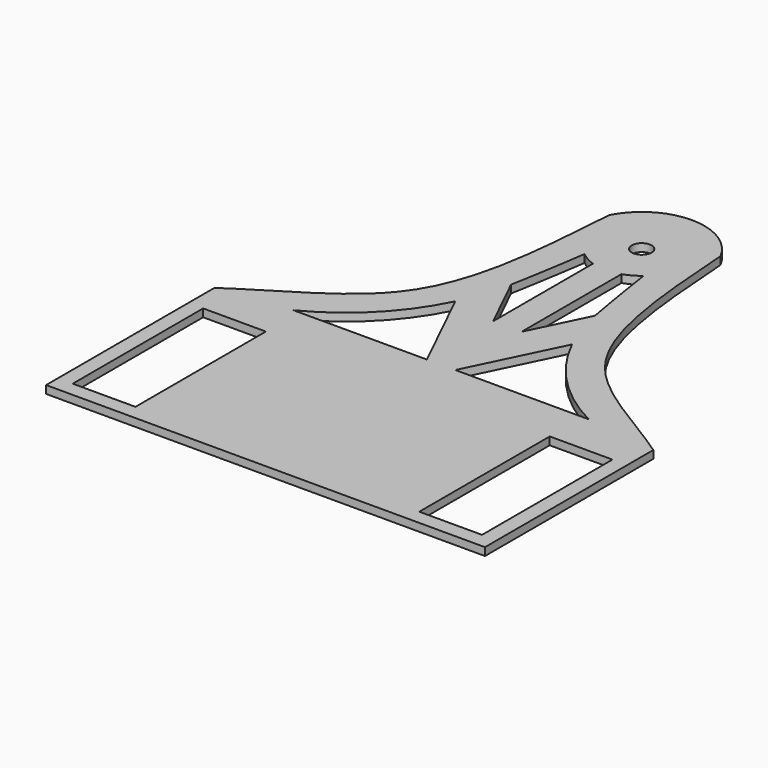
from build123d import *

# Parameters (mm, degrees)
F0_R     = 4
F0_W     = 177.8
F0_H     = 85.24
F0_W_2   = 25.4
F0_H_2   = 66.04
F1_DEPTH = 3.175


with BuildPart() as f1:
    # F0 (on Top) → F1 (new body)
    with BuildSketch(Plane.XY):
        with BuildLine():
            add(Edge.make_bspline(
                [(22.5202294805, 113.3473088044), (24.6785630933, 84.2312430336), (27.5522275569, 27.268327843), (69.7704020362, 9.5247320193), (88.8999999985, -3.66)],
                knots=[0, 0, 0, 0, 0.529467504, 1, 1, 1, 1], degree=3))
            ThreePointArc((22.5202294805, 113.3473088043), (1e-10, 127), (-22.5202294805, 113.3473088044))
            add(Edge.make_bspline(
                [(-22.5202294805, 113.3473088044), (-24.6785630933, 84.2312430336), (-27.5522275569, 27.268327843), (-69.7704020362, 9.5247320193), (-88.8999999985, -3.66)],
                knots=[0, 0, 0, 0, 0.529467504, 1, 1, 1, 1], degree=3))
            Line((-88.8999999985, -3.66), (88.9000000015, -3.66))
        make_face()
        with BuildLine():
            ThreePointArc((-59.8212145269, 0), (-38.7136496278, 15.4052324982), (-23.6512337148, 36.7587828155))
            Line((-23.6512337148, 36.7587828155), (-5.7622946509, 0))
            Line((-5.7622946509, 0), (-59.8212145269, 0))
        make_face(mode=Mode.SUBTRACT)
        with BuildLine():
            Line((5.7622946509, 0), (23.6512337148, 36.7587828155))
            ThreePointArc((23.6512337148, 36.7587828155), (38.7136496278, 15.4052324982), (59.8212145269, 0))
            Line((59.8212145269, 0), (5.7622946509, 0))
        make_face(mode=Mode.SUBTRACT)
        with BuildLine():
            Line((-5.7622946509, 33.5634882355), (-17.0102279312, 56.676113031))
            ThreePointArc((-17.0102279312, 56.676113031), (-14.345117084, 72.11901875), (-11.9453535958, 87.6053768783))
            ThreePointArc((-11.9453535958, 87.6053768783), (-9.0231108807, 85.5649004094), (-5.7622946509, 84.1261077832))
            Line((-5.7622946509, 84.1261077832), (-5.7622946509, 33.5634882355))
        make_face(mode=Mode.SUBTRACT)
        with Locations((0, 101.6)):
            Circle(F0_R, mode=Mode.SUBTRACT)
        with BuildLine():
            Line((5.7622946509, 33.5634882355), (5.7622946509, 84.1261077832))
            ThreePointArc((5.7622946509, 84.1261077832), (9.0231108807, 85.5649004094), (11.9453535958, 87.6053768783))
            ThreePointArc((11.9453535958, 87.6053768783), (14.345117084, 72.11901875), (17.0102279312, 56.676113031))
            Line((17.0102279312, 56.676113031), (5.7622946509, 33.5634882355))
        make_face(mode=Mode.SUBTRACT)
        with Locations((1.5e-09, -46.28)):
            Rectangle(F0_W, F0_H)
        with Locations((-70.1999999985, -49.88)):
            Rectangle(F0_W_2, F0_H_2, mode=Mode.SUBTRACT)
        with Locations((70.1999999985, -49.88)):
            Rectangle(F0_W_2, F0_H_2, mode=Mode.SUBTRACT)
    extrude(amount=F1_DEPTH)


solid = f1.part
